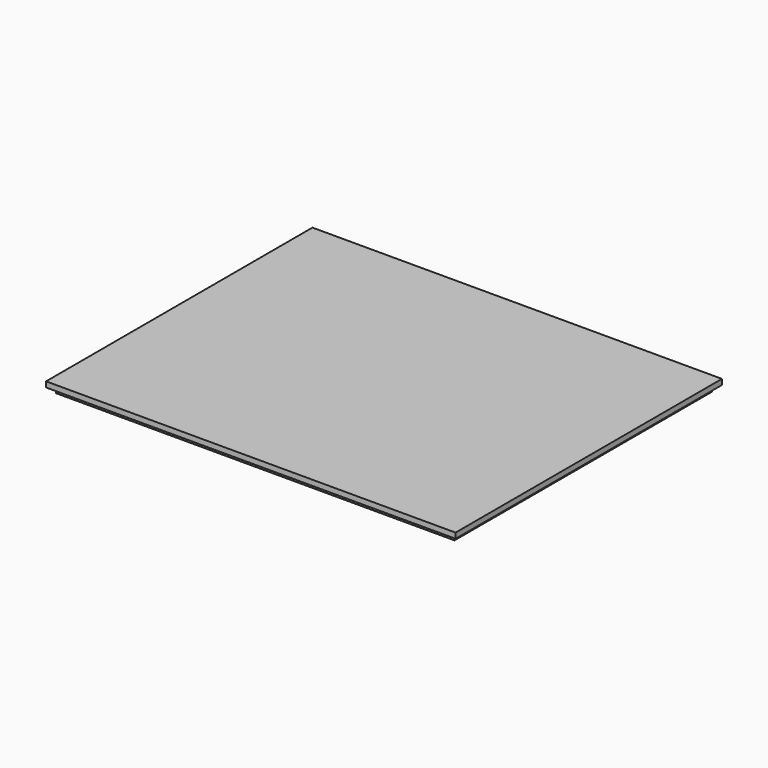
from build123d import *

# Parameters (mm, degrees)
SKETCH072_W     = 452.6
SKETCH072_H     = 368
PAD026_DEPTH    = 12
SKETCH073_W     = 452.6
SKETCH073_H     = 6
POCKET044_DEPTH = 6
SKETCH074_W     = 452.6
SKETCH074_H     = 6
POCKET045_DEPTH = 6
SKETCH075_W     = 6
SKETCH075_H     = 356
POCKET046_DEPTH = 6


with BuildPart() as part:
    # Sketch072 → Pad026 (new body)
    with BuildSketch(Plane.XY):
        with Locations((0, 184)):
            Rectangle(SKETCH072_W, SKETCH072_H)
    extrude(amount=PAD026_DEPTH)

    # Sketch073 (on Face5 of Pad026) → Pocket044 (cut)
    with BuildSketch(Plane(origin=(0, 0, 0), x_dir=(1, 0, 0), z_dir=(0, 0, -1))):
        with Locations((0, -3)):
            Rectangle(SKETCH073_W, SKETCH073_H)
    extrude(amount=-POCKET044_DEPTH, mode=Mode.SUBTRACT)

    # Sketch074 (on Face4 of Pocket044) → Pocket045 (cut)
    with BuildSketch(Plane(origin=(0, 0, 0), x_dir=(1, 0, 0), z_dir=(0, 0, -1))):
        with Locations((0, -365)):
            Rectangle(SKETCH074_W, SKETCH074_H)
    extrude(amount=-POCKET045_DEPTH, mode=Mode.SUBTRACT)

    # Sketch075 (on Face7 of Pocket045) → Pocket046 (cut)
    with BuildSketch(Plane(origin=(0, 0, 0), x_dir=(1, 0, 0), z_dir=(0, 0, -1))):
        with Locations((-223.3, -184)):
            Rectangle(SKETCH075_W, SKETCH075_H)
    pocket046 = extrude(amount=-POCKET046_DEPTH, mode=Mode.SUBTRACT)

    # Mirrored017: Pocket046 across Sketch075 V_Axis
    add(pocket046.mirror(Plane(origin=(0, 0, 0), x_dir=(0, 0, -1), z_dir=(1, 0, 0))), mode=Mode.SUBTRACT)


with BuildPart() as part_1:
    # Body025 placement: moved
    add(part.part.moved(Location((0, -6, 0))))


solid = part_1.part
